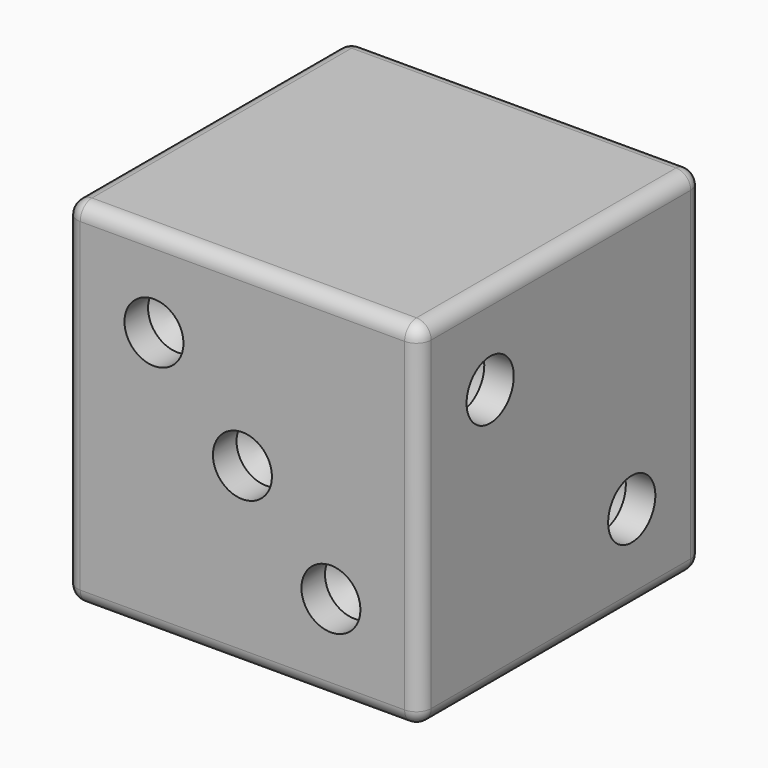
from build123d import *

# Parameters (mm, degrees)
F0_W           = 24
F0_H           = 24
F0_R           = 2
F1_DEPTH       = 24
F6_D           = 4
F6_DEPTH       = 2
F6_TIP         = 1.2017212381
F7_D           = 4
F7_DEPTH       = 2
F7_TIP         = 1.2017212381
F8_D           = 4
F8_DEPTH       = 2
F8_TIP         = 1.2017212381
F9_D           = 4
F9_DEPTH       = 2
F9_TIP         = 1.2017212381
F9_ON_F5_D     = 4
F9_ON_F5_DEPTH = 2
F9_ON_F5_TIP   = 1.2017212381
F10_R          = 1


with BuildPart() as f1:
    # F0 (on Top) → F1 (new body)
    with BuildSketch(Plane.XY):
        Rectangle(F0_W, F0_H)
        with Locations((-6, -6)):
            Circle(F0_R, mode=Mode.SUBTRACT)
        with Locations((6, -6)):
            Circle(F0_R, mode=Mode.SUBTRACT)
        with Locations((-6, 6)):
            Circle(F0_R, mode=Mode.SUBTRACT)
        Circle(F0_R, mode=Mode.SUBTRACT)
        with Locations((6, 6)):
            Circle(F0_R, mode=Mode.SUBTRACT)
        with Locations((6, 6)):
            Circle(F0_R)
        with Locations((-6, 6)):
            Circle(F0_R)
        Circle(F0_R)
        with Locations((-6, -6)):
            Circle(F0_R)
        with Locations((6, -6)):
            Circle(F0_R)
    extrude(amount=F1_DEPTH)

    # F6
    with Locations(Plane.XZ.offset(12)):
        with Locations((-6, 18), (0, 12), (6, 6)):
            Hole(F6_D / 2, depth=F6_DEPTH)
            with Locations((0, 0, -(F6_DEPTH + F6_TIP / 2))):  # 118° drill point
                Cone(0, F6_D / 2, F6_TIP, mode=Mode.SUBTRACT)

    # F7
    with Locations(Plane(origin=(-12, 0, 0), x_dir=(0, -1, 0), z_dir=(-1, 0, 0))):
        with Locations((6, 19), (6, 12), (6, 5), (-6, 19), (-6, 12), (-6, 5)):
            Hole(F7_D / 2, depth=F7_DEPTH)
            with Locations((0, 0, -(F7_DEPTH + F7_TIP / 2))):  # 118° drill point
                Cone(0, F7_D / 2, F7_TIP, mode=Mode.SUBTRACT)

    # F8
    with Locations(Plane(origin=(0, 0, 0), x_dir=(1, 0, 0), z_dir=(0, 0, -1))):
        with Locations((-6, 6), (6, 6), (-6, -6), (6, -6), (0, 0)):
            Hole(F8_D / 2, depth=F8_DEPTH)
            with Locations((0, 0, -(F8_DEPTH + F8_TIP / 2))):  # 118° drill point
                Cone(0, F8_D / 2, F8_TIP, mode=Mode.SUBTRACT)

    # F9
    with Locations(Plane.YZ.offset(12)):
        with Locations((-6, 18), (6, 6)):
            Hole(F9_D / 2, depth=F9_DEPTH)
            with Locations((0, 0, -(F9_DEPTH + F9_TIP / 2))):  # 118° drill point
                Cone(0, F9_D / 2, F9_TIP, mode=Mode.SUBTRACT)

    # F9 on F5
    with Locations(Plane(origin=(0, 12, 0), x_dir=(-1, 0, 0), z_dir=(0, 1, 0))):
        with Locations((0, 12)):
            Hole(F9_ON_F5_D / 2, depth=F9_ON_F5_DEPTH)
            with Locations((0, 0, -(F9_ON_F5_DEPTH + F9_ON_F5_TIP / 2))):  # 118° drill point
                Cone(0, F9_ON_F5_D / 2, F9_ON_F5_TIP, mode=Mode.SUBTRACT)

    # F10
    f10_edges = [f1.edges().sort_by_distance(p)[0] for p in [
        (0, -12, 0),
        (-12, 0, 0),
        (-12, -12, 12),
        (12, 0, 0),
        (0, 12, 0),
        (12, -12, 12),
        (0, -12, 24),
        (-12, 0, 24),
        (-12, 12, 12),
        (0, 12, 24),
        (12, 12, 12),
        (12, 0, 24),
    ]]
    fillet(f10_edges, radius=F10_R)


solid = f1.part
